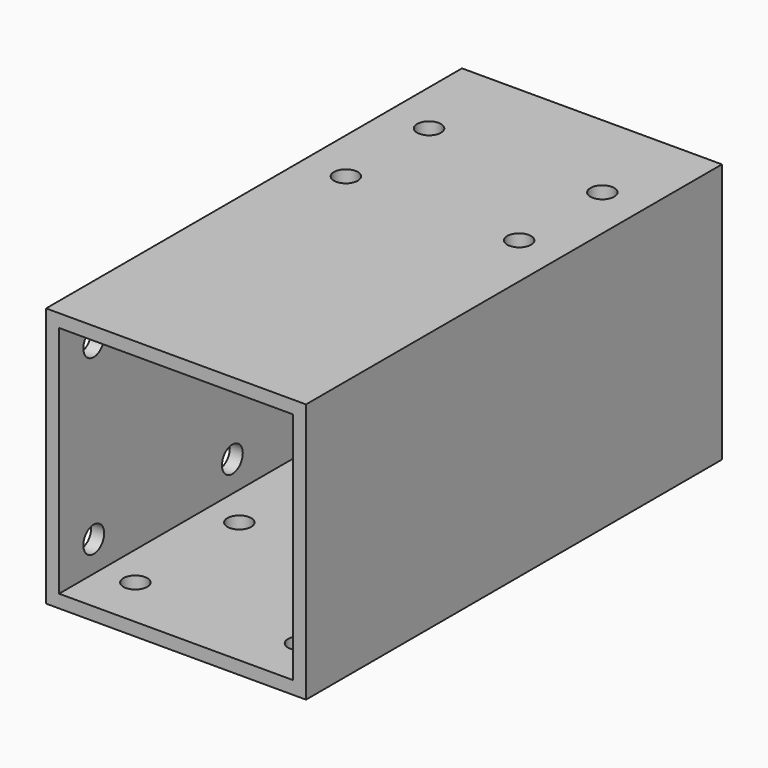
from build123d import *

# Parameters (mm, degrees)
SKETCH_W        = 60
SKETCH_H        = 60
SKETCH_W_2      = 54
SKETCH_H_2      = 54
PAD_DEPTH       = 120
SKETCH001_R     = 2.75
POCKET_DEPTH    = 3
SKETCH002_R     = 2.75
POCKET001_DEPTH = 3
SKETCH003_R     = 3
POCKET002_DEPTH = 3


with BuildPart() as part:
    # Sketch → Pad (new body)
    with BuildSketch(Plane.XZ):
        Rectangle(SKETCH_W, SKETCH_H)
        Rectangle(SKETCH_W_2, SKETCH_H_2, mode=Mode.SUBTRACT)
    extrude(amount=PAD_DEPTH)

    # Sketch001 (on Face3 of Pad) → Pocket (cut)
    with BuildSketch(Plane(origin=(0, 0, -30), x_dir=(1, 0, 0), z_dir=(0, 0, -1))):
        with Locations((-19, 108)):
            Circle(SKETCH001_R)
        with Locations((-19, 78)):
            Circle(SKETCH001_R)
        with Locations((19, 108)):
            Circle(SKETCH001_R)
        with Locations((19, 78)):
            Circle(SKETCH001_R)
        with Locations((-19, 42)):
            Circle(SKETCH001_R)
        with Locations((-19, 12)):
            Circle(SKETCH001_R)
        with Locations((19, 42)):
            Circle(SKETCH001_R)
        with Locations((19, 12)):
            Circle(SKETCH001_R)
    extrude(amount=-POCKET_DEPTH, mode=Mode.SUBTRACT)

    # Sketch002 (on Face1 of Pocket) → Pocket001 (cut)
    with BuildSketch(Plane(origin=(0, 0, 30), x_dir=(-1, 0, 0), z_dir=(0, 0, 1))):
        with Locations((-20, 46)):
            Circle(SKETCH002_R)
        with Locations((-20, 22)):
            Circle(SKETCH002_R)
        with Locations((20, 46)):
            Circle(SKETCH002_R)
        with Locations((20, 22)):
            Circle(SKETCH002_R)
    extrude(amount=-POCKET001_DEPTH, mode=Mode.SUBTRACT)

    # Sketch003 (on Face2 of Pocket001) → Pocket002 (cut)
    with BuildSketch(Plane(origin=(-30, 0, 0), x_dir=(0, 0, -1), z_dir=(-1, 0, 0))):
        with Locations((-20, 110)):
            Circle(SKETCH003_R)
        with Locations((20, 110)):
            Circle(SKETCH003_R)
        with Locations((-20, 70)):
            Circle(SKETCH003_R)
        with Locations((20, 70)):
            Circle(SKETCH003_R)
    extrude(amount=-POCKET002_DEPTH, mode=Mode.SUBTRACT)


solid = part.part
